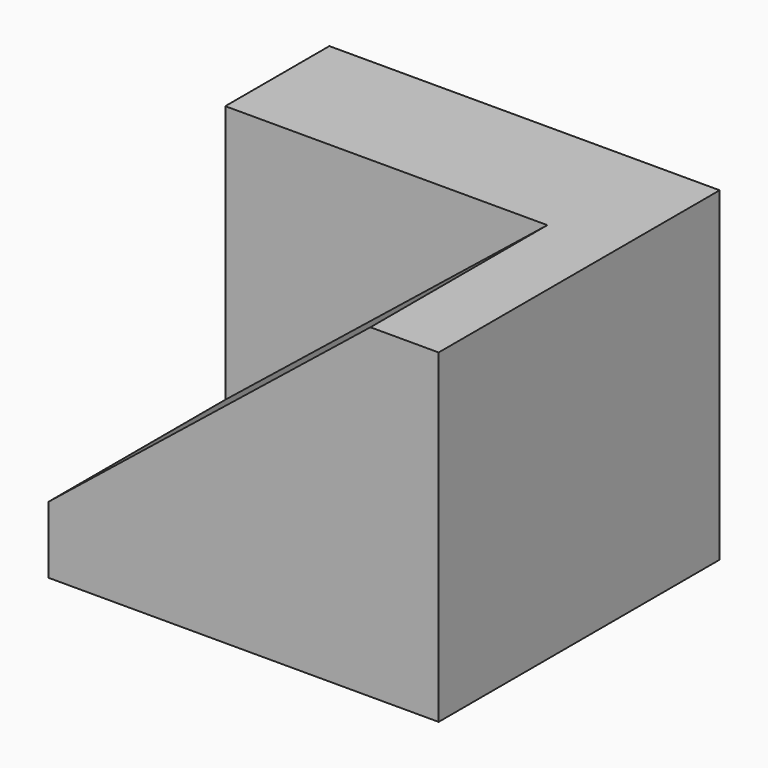
from build123d import *

# Parameters (mm, degrees)
F0_W     = 38.1
F0_H     = 25.4
F2_DEPTH = 31.75
F4_DEPTH = 12.7
F5_DEPTH = 8.89


with BuildPart() as f2:
    # F0 (on Top) → F2 (new body)
    with BuildSketch(Plane.XY):
        with Locations((19.05, 12.7)):
            Rectangle(F0_W, F0_H)
    extrude(amount=F2_DEPTH)

    # F3 (on face) → F4 (cut)
    with BuildSketch(Plane.XZ):
        Polygon((0, 31.75), (0, 6.521496), (31.439457, 31.75), align=None)
    extrude(amount=-F4_DEPTH, mode=Mode.SUBTRACT)

    # F2_face (on face) → F5 (join)
    with BuildSketch(Plane(origin=(19.05, 0, 15.875), x_dir=(1, 0, 0), z_dir=(0, -1, 0))):
        Polygon((-19.05, -15.875), (19.05, -15.875), (19.05, 15.875), (12.389457, 15.875), (-19.05, -9.353504), align=None)
    extrude(amount=F5_DEPTH)


solid = f2.part
